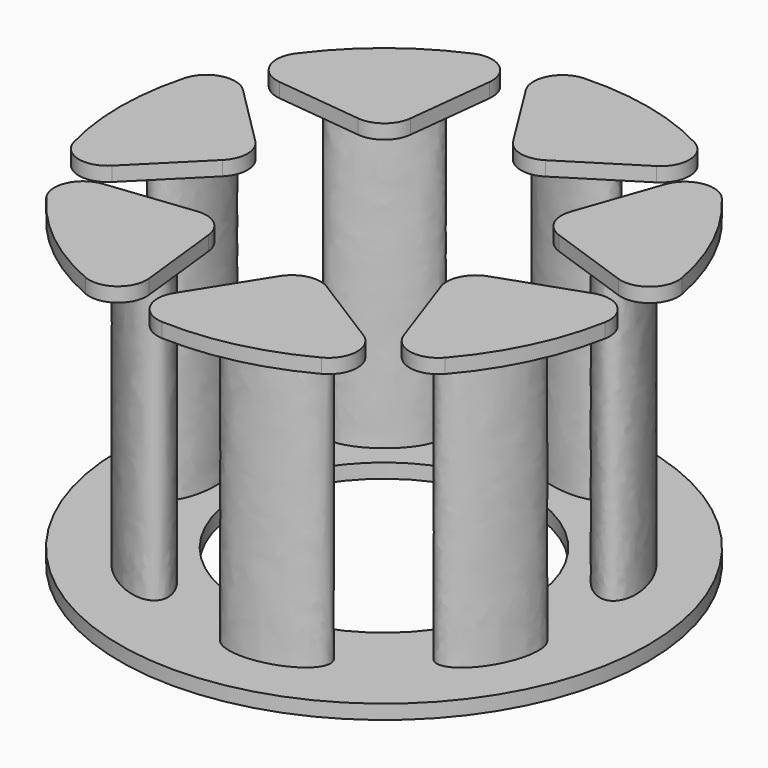
from build123d import *

# Parameters (mm, degrees)
F0_R     = 27.5
F1_DEPTH = 1.5
F2_R     = 15
F3_DEPTH = 1.5
F5_DEPTH = 30
F7_DEPTH = 1.5


with BuildPart() as f1:
    # F0 (on Top) → F1 (new body)
    with BuildSketch(Plane.XY):
        Circle(F0_R)
    extrude(amount=-F1_DEPTH)

    # F2 (on face) → F3 (cut, through all)
    with BuildSketch(Plane.XY):
        Circle(F2_R)
    extrude(amount=-F3_DEPTH, mode=Mode.SUBTRACT)

    # F4 (on face) → F5 (join)
    with BuildSketch(Plane.XY):
        with BuildLine():
            add(Edge.make_bspline(
                [(-8.5606386248, -18.7540786587), (-5.8608485878, -15.3686490322), (-13.0744797248, -12.3851903315), (-20.2881108619, -9.4017316308), (-15.7742697619, -15.770619958), (-11.2604286619, -22.1395082851), (-8.5606386248, -18.7540786587)],
                knots=[0, 0, 0, 2.0943951024, 2.0943951024, 4.1887902048, 4.1887902048, 6.2831853072, 6.2831853072, 6.2831853072], degree=2, weights=[1, 0.5, 1, 0.5, 1, 0.5, 1]))
        make_face()
        with BuildLine():
            add(Edge.make_bspline(
                [(9.32505824, -18.3859535739), (8.3615143316, -14.1643918798), (1.5313269445, -17.9440797315), (-5.2988604427, -21.7237675832), (2.4948708529, -22.1656414255), (10.2886021484, -22.6075152679), (9.32505824, -18.3859535739)],
                knots=[0, 0, 0, 2.0943951024, 2.0943951024, 4.1887902048, 4.1887902048, 6.2831853072, 6.2831853072, 6.2831853072], degree=2, weights=[1, 0.5, 1, 0.5, 1, 0.5, 1]))
        make_face()
        with BuildLine():
            add(Edge.make_bspline(
                [(20.1887960536, -4.1728304428), (16.2874864155, -2.294058741), (14.9840131912, -9.9907111012), (13.6805399669, -17.6873634614), (18.8853228293, -11.869482803), (24.0901056917, -6.0516021447), (20.1887960536, -4.1728304428)],
                knots=[0, 0, 0, 2.0943951024, 2.0943951024, 4.1887902048, 4.1887902048, 6.2831853072, 6.2831853072, 6.2831853072], degree=2, weights=[1, 0.5, 1, 0.5, 1, 0.5, 1]))
        make_face()
        with BuildLine():
            add(Edge.make_bspline(
                [(15.8499586625, 13.1825191219), (11.9486490243, 11.30374742), (17.1534318868, 5.4858667617), (22.3582147492, -0.3320138967), (21.0547415249, 7.3646384635), (19.7512683006, 15.0612908237), (15.8499586625, 13.1825191219)],
                knots=[0, 0, 0, 2.0943951024, 2.0943951024, 4.1887902048, 4.1887902048, 6.2831853072, 6.2831853072, 6.2831853072], degree=2, weights=[1, 0.5, 1, 0.5, 1, 0.5, 1]))
        make_face()
        with BuildLine():
            add(Edge.make_bspline(
                [(-0.4242208818, 20.6111629134), (-1.3877647902, 16.3896012194), (6.4059665054, 16.8314750617), (14.1996978009, 17.2733489041), (7.3695104138, 21.0530367558), (0.5393230266, 24.8327246075), (-0.4242208818, 20.6111629134)],
                knots=[0, 0, 0, 2.0943951024, 2.0943951024, 4.1887902048, 4.1887902048, 6.2831853072, 6.2831853072, 6.2831853072], degree=2, weights=[1, 0.5, 1, 0.5, 1, 0.5, 1]))
        make_face()
        with BuildLine():
            add(Edge.make_bspline(
                [(-16.3789534495, 12.5191806401), (-13.6791634125, 9.1337510136), (-9.1653223125, 15.5026393408), (-4.6514812125, 21.8715276679), (-11.8651123495, 18.8880689672), (-19.0787434866, 15.9046102665), (-16.3789534495, 12.5191806401)],
                knots=[0, 0, 0, 2.0943951024, 2.0943951024, 4.1887902048, 4.1887902048, 6.2831853072, 6.2831853072, 6.2831853072], degree=2, weights=[1, 0.5, 1, 0.5, 1, 0.5, 1]))
        make_face()
        with BuildLine():
            add(Edge.make_bspline(
                [(-20, -5), (-15.6698729811, -5), (-17.8349364905, 2.5), (-20, 10), (-22.1650635095, 2.5), (-24.3301270189, -5), (-20, -5)],
                knots=[0, 0, 0, 2.0943951024, 2.0943951024, 4.1887902048, 4.1887902048, 6.2831853072, 6.2831853072, 6.2831853072], degree=2, weights=[1, 0.5, 1, 0.5, 1, 0.5, 1]))
        make_face()
    extrude(amount=F5_DEPTH)

    # F6 (on face) → F7 (join)
    with BuildSketch(Plane.XY.offset(30)):
        with BuildLine():
            ThreePointArc((-15.1029993872, -2.1213203436), (-14.2243197308, 0), (-15.1029993872, 2.1213203436))
            Line((-15.1029993872, 2.1213203436), (-21.5226625135, 8.5409834698))
            ThreePointArc((-21.5226625135, 8.5409834698), (-24.4156247392, 9.3187265622), (-26.5391644314, 7.2057443254))
            ThreePointArc((-26.5391644314, 7.2057443254), (-27.5, 0), (-26.5391644314, -7.2057443254))
            ThreePointArc((-26.5391644314, -7.2057443254), (-24.4156247392, -9.3187265622), (-21.5226625135, -8.5409834698))
            Line((-21.5226625135, -8.5409834698), (-15.1029993872, -2.1213203436))
        make_face()
        with BuildLine():
            ThreePointArc((-7.7580510664, -13.1306220013), (-8.8687182905, -11.1210209822), (-11.0750811244, -10.4853787999))
            Line((-11.0750811244, -10.4853787999), (-20.096770354, -11.5018790483))
            ThreePointArc((-20.096770354, -11.5018790483), (-22.5085668338, -13.2787731074), (-22.1805761411, -16.2564461692))
            ThreePointArc((-22.1805761411, -16.2564461692), (-17.1459695511, -21.5003657679), (-10.9132206046, -25.2418623726))
            ThreePointArc((-10.9132206046, -25.2418623726), (-7.9372192281, -24.8990350631), (-6.7415508181, -22.1523112309))
            Line((-6.7415508181, -22.1523112309), (-7.7580510664, -13.1306220013))
        make_face()
        with BuildLine():
            ThreePointArc((5.4288679428, -14.2522974762), (3.1652089114, -13.8676863373), (1.2925991156, -15.1963738443))
            Line((1.2925991156, -15.1963738443), (-3.5376002185, -22.8835920475))
            ThreePointArc((-3.5376002185, -22.8835920475), (-3.6520990114, -25.8770857895), (-1.1195616152, -27.4772011273))
            ThreePointArc((-1.1195616152, -27.4772011273), (6.1193256838, -26.810517585), (12.9306009266, -24.270343213))
            ThreePointArc((12.9306009266, -24.270343213), (14.5180742516, -21.7298623137), (13.116086146, -19.0824968103))
            Line((13.116086146, -19.0824968103), (5.4288679428, -14.2522974762))
        make_face()
        with BuildLine():
            ThreePointArc((14.5277386624, -4.6417022576), (12.8156692445, -6.1717010312), (12.6869258573, -8.4641894344))
            Line((12.6869258573, -8.4641894344), (15.6854550354, -17.0334934947))
            ThreePointArc((15.6854550354, -17.0334934947), (17.9544738558, -18.9894250758), (20.7845056418, -18.0070632038))
            ThreePointArc((20.7845056418, -18.0070632038), (24.7766438673, -11.9318028257), (27.0374162239, -5.0227605893))
            ThreePointArc((27.0374162239, -5.0227605893), (26.0409617051, -2.1976600337), (23.0970427227, -1.6431730795))
            Line((23.0970427227, -1.6431730795), (14.5277386624, -4.6417022576))
        make_face()
        with BuildLine():
            ThreePointArc((12.6869258573, 8.4641894344), (12.8156692445, 6.1717010312), (14.5277386624, 4.6417022576))
            Line((14.5277386624, 4.6417022576), (23.0970427227, 1.6431730795))
            ThreePointArc((23.0970427227, 1.6431730795), (26.0409617051, 2.1976600337), (27.0374162239, 5.0227605893))
            ThreePointArc((27.0374162239, 5.0227605893), (24.7766438673, 11.9318028257), (20.7845056418, 18.0070632038))
            ThreePointArc((20.7845056418, 18.0070632038), (17.9544738558, 18.9894250758), (15.6854550354, 17.0334934947))
            Line((15.6854550354, 17.0334934947), (12.6869258573, 8.4641894344))
        make_face()
        with BuildLine():
            ThreePointArc((1.2925991156, 15.1963738443), (3.1652089114, 13.8676863373), (5.4288679428, 14.2522974762))
            Line((5.4288679428, 14.2522974762), (13.116086146, 19.0824968103))
            ThreePointArc((13.116086146, 19.0824968103), (14.5180742516, 21.7298623137), (12.9306009266, 24.270343213))
            ThreePointArc((12.9306009266, 24.270343213), (6.1193256838, 26.810517585), (-1.1195616152, 27.4772011273))
            ThreePointArc((-1.1195616152, 27.4772011273), (-3.6520990114, 25.8770857895), (-3.5376002185, 22.8835920475))
            Line((-3.5376002185, 22.8835920475), (1.2925991156, 15.1963738443))
        make_face()
        with BuildLine():
            ThreePointArc((-11.0750811244, 10.4853787999), (-8.8687182905, 11.1210209822), (-7.7580510664, 13.1306220013))
            Line((-7.7580510664, 13.1306220013), (-6.7415508181, 22.1523112309))
            ThreePointArc((-6.7415508181, 22.1523112309), (-7.9372192281, 24.8990350631), (-10.9132206046, 25.2418623726))
            ThreePointArc((-10.9132206046, 25.2418623726), (-17.1459695511, 21.5003657679), (-22.1805761411, 16.2564461692))
            ThreePointArc((-22.1805761411, 16.2564461692), (-22.5085668338, 13.2787731074), (-20.096770354, 11.5018790483))
            Line((-20.096770354, 11.5018790483), (-11.0750811244, 10.4853787999))
        make_face()
    extrude(amount=F7_DEPTH)


solid = f1.part
